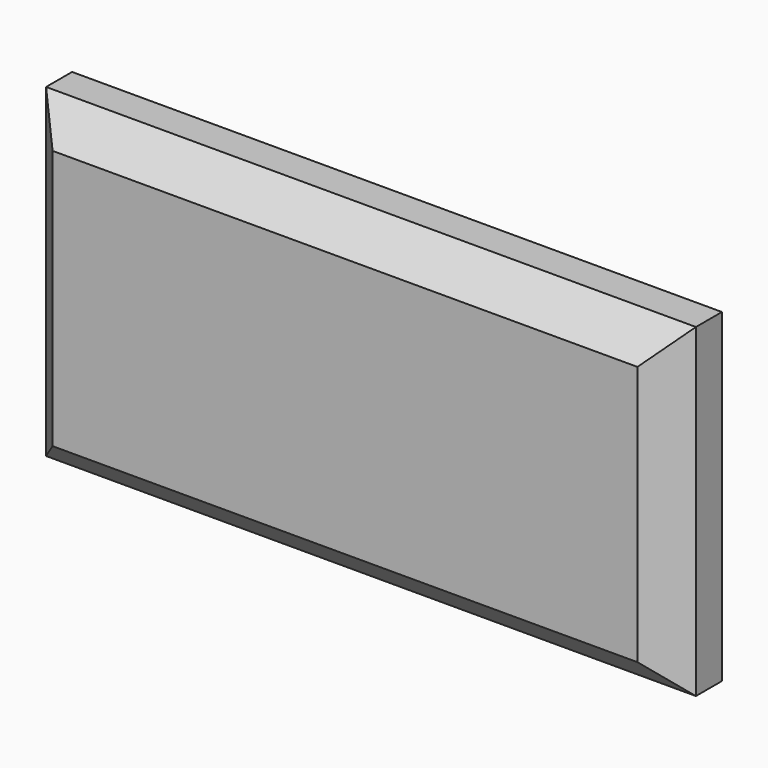
from build123d import *

# Parameters (mm, degrees)
F0_W     = 200
F0_H     = 100
F1_DEPTH = 30
F2_SIZE2 = 10
F2_SIZE  = 10


with BuildPart() as f1:
    # F0 (on Front) → F1 (new body)
    with BuildSketch(Plane.XZ):
        Rectangle(F0_W, F0_H)
    extrude(amount=F1_DEPTH)

    # F2
    f2_edges = [f1.edges().sort_by_distance(p)[0] for p in [
        (0, -30, 50),
        (0, -30, -50),
        (100, -30, 0),
        (-100, -30, 0),
        (-100, 0, 0),
        (0, 0, 50),
        (0, 0, -50),
        (100, 0, 0),
    ]]
    chamfer(f2_edges, length=F2_SIZE, length2=F2_SIZE2)


solid = f1.part
